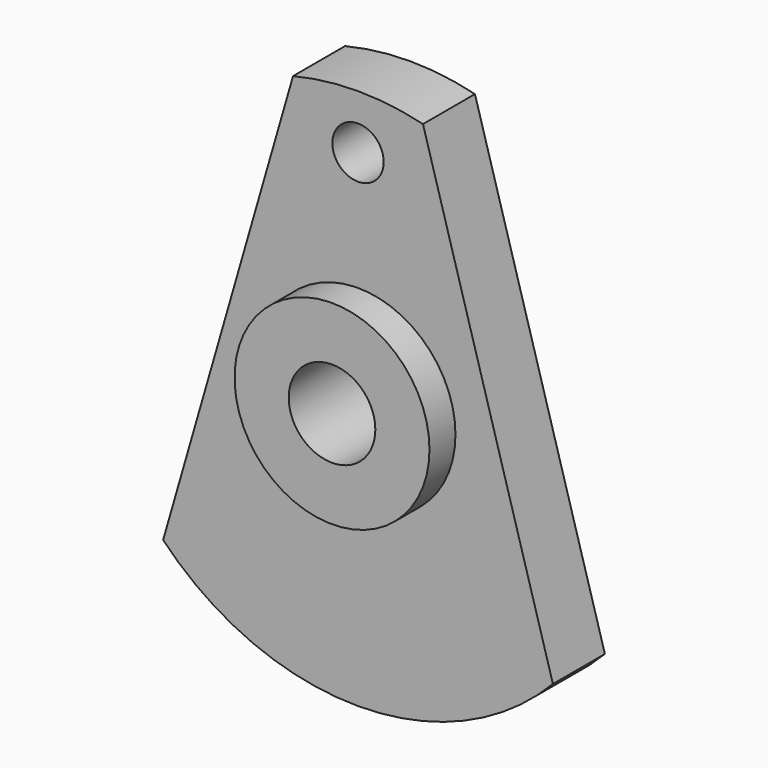
from build123d import *

# Parameters (mm, degrees)
F0_R     = 4.5
F0_R_2   = 1.185
F0_R_3   = 2
F1_DEPTH = 3
F2_DEPTH = 4.5


with BuildPart() as f1:
    # F0 (on Front) → F1 (new body)
    with BuildSketch(Plane.XZ):
        with BuildLine():
            Line((9, -8.674676), (3, 12.134661))
            ThreePointArc((3, 12.134661), (0, 12.5), (-3, 12.134661))
            Line((-3, 12.134661), (-9, -8.674676))
            ThreePointArc((-9, -8.674676), (0, -12.5), (9, -8.674676))
        make_face()
        Circle(F0_R, mode=Mode.SUBTRACT)
        with Locations((0, 10.000885)):
            Circle(F0_R_2, mode=Mode.SUBTRACT)
        Circle(F0_R)
        Circle(F0_R_3, mode=Mode.SUBTRACT)
    extrude(amount=F1_DEPTH)

    # F0 (on Front) → F2 (join)
    with BuildSketch(Plane.XZ):
        Circle(F0_R)
        Circle(F0_R_3, mode=Mode.SUBTRACT)
    extrude(amount=F2_DEPTH)


solid = f1.part
